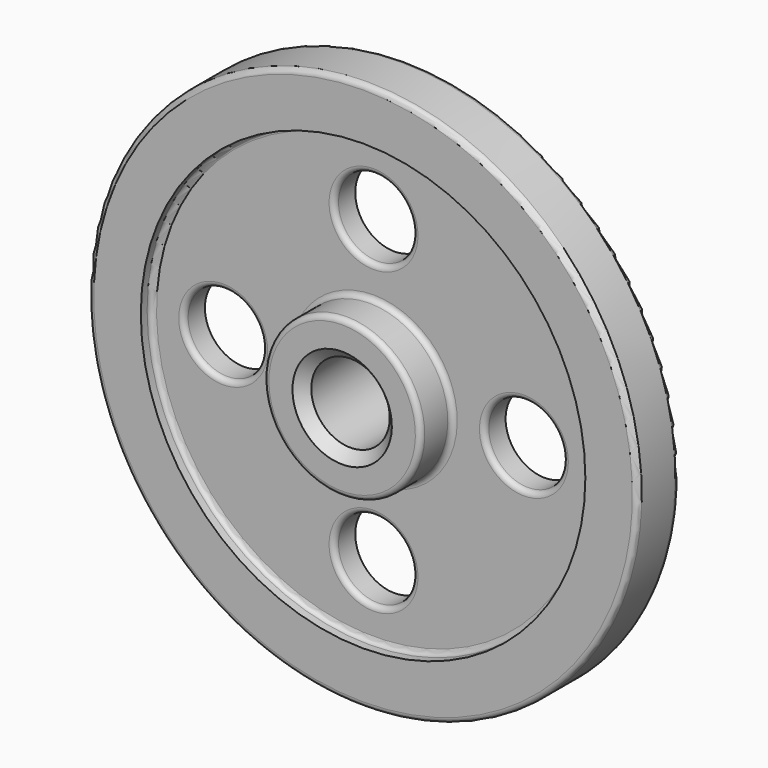
from build123d import *

# Parameters (mm, degrees)
F2_R     = 19.05
F3_DEPTH = 25.4
F4_R     = 2.54
F5_SIZE  = 5.08


with BuildPart() as f1:
    # F0 (on Right) → F1 (revolve)
    with BuildSketch(Plane.YZ):
        Polygon((25.4, 38.1), (6.35, 38.1), (6.35, 107.95), (12.7, 107.95), (12.7, 133.35), (0, 133.35), (-12.7, 133.35), (-12.7, 107.95), (-6.35, 107.95), (-6.35, 38.1), (-25.4, 38.1), (-25.4, 19.05), (0, 19.05), (25.4, 19.05), align=None)
    revolve(axis=Axis((0, 108.4199026227, 0), (0, 1, 0)))

    # F2 (on face) → F3 (cut)
    with BuildSketch(Plane.XZ.offset(6.35)):
        with BuildLine():
            ThreePointArc((0, 53.975), (13.4703841816, 59.5546158184), (19.05, 73.025))
            ThreePointArc((19.05, 73.025), (-13.4703841816, 86.4953841816), (0, 53.975))
        make_face()
        with Locations((-73.025, 0)):
            Circle(F2_R)
        with Locations((0, -73.025)):
            Circle(F2_R)
        with Locations((73.025, 0)):
            Circle(F2_R)
    extrude(amount=-F3_DEPTH, mode=Mode.SUBTRACT)

    # F4
    f4_edges = [f1.edges().sort_by_distance(p)[0] for p in [
        (0, -6.35, -107.95),
        (-92.075, -6.35, 0),
        (-19.05, -6.35, -73.025),
        (0, -6.35, -38.1),
        (0, -6.35, 92.075),
        (53.975, -6.35, 0),
        (0, -25.4, -38.1),
        (0, -12.7, -133.35),
        (0, 12.7, -133.35),
    ]]
    fillet(f4_edges, radius=F4_R)

    # F5
    f5_edges = [f1.edges().sort_by_distance(p)[0] for p in [
        (0, -25.4, -19.05),
    ]]
    chamfer(f5_edges, length=F5_SIZE)


solid = f1.part
